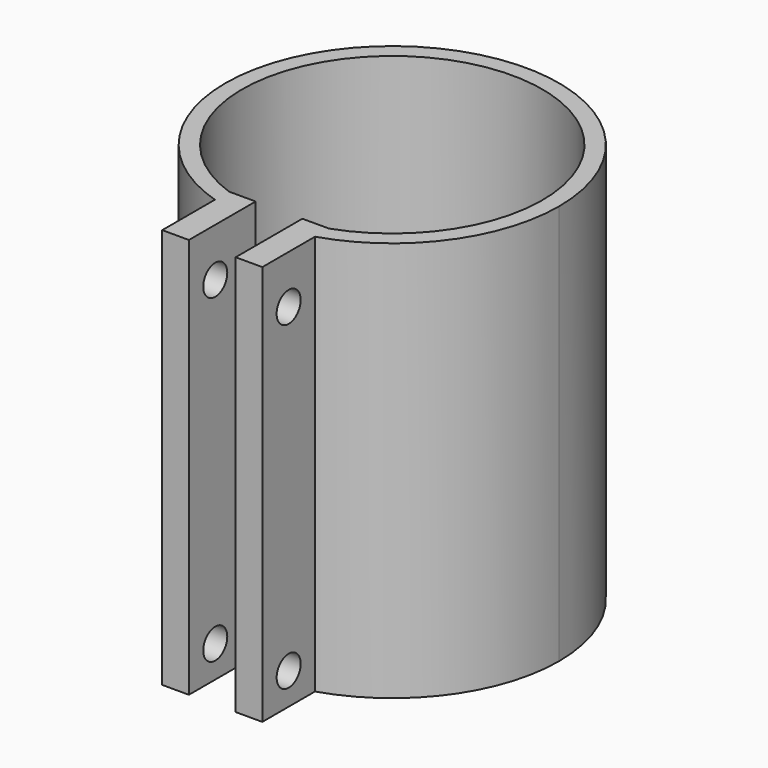
from build123d import *

# Parameters (mm, degrees)
F1_DEPTH = 120
F2_R     = 4.5
F3_DEPTH = 50


with BuildPart() as f1:
    # F0 (on Top) → F1 (new body)
    with BuildSketch(Plane.XY):
        with BuildLine():
            ThreePointArc((-15, -42.426409), (0, 45.000002), (15, -42.426409))
            Line((15, -42.426409), (15, -47.69696))
            ThreePointArc((15, -47.69696), (40.311289, -29.580399), (50, 0))
            ThreePointArc((50, 0), (0, 50), (-50, 0))
            ThreePointArc((-50, 0), (-40.311289, -29.580399), (-15, -47.69696))
            Line((-15, -47.69696), (-15, -42.426409))
        make_face()
        Polygon((15, -47.69696), (15, -42.426409), (7, -42.426409), (7, -67.426409), (15, -67.426409), align=None)
        Polygon((-7, -42.426409), (-15, -42.426409), (-15, -47.69696), (-15, -67.426409), (-7, -67.426409), align=None)
    extrude(amount=F1_DEPTH)

    # F2 (on face) → F3 (cut)
    with BuildSketch(Plane.YZ.offset(15)):
        with Locations((-57.561684, 105.5)):
            Circle(F2_R)
        with Locations((-57.561684, 9.5)):
            Circle(F2_R)
    extrude(amount=-F3_DEPTH, mode=Mode.SUBTRACT)


solid = f1.part
